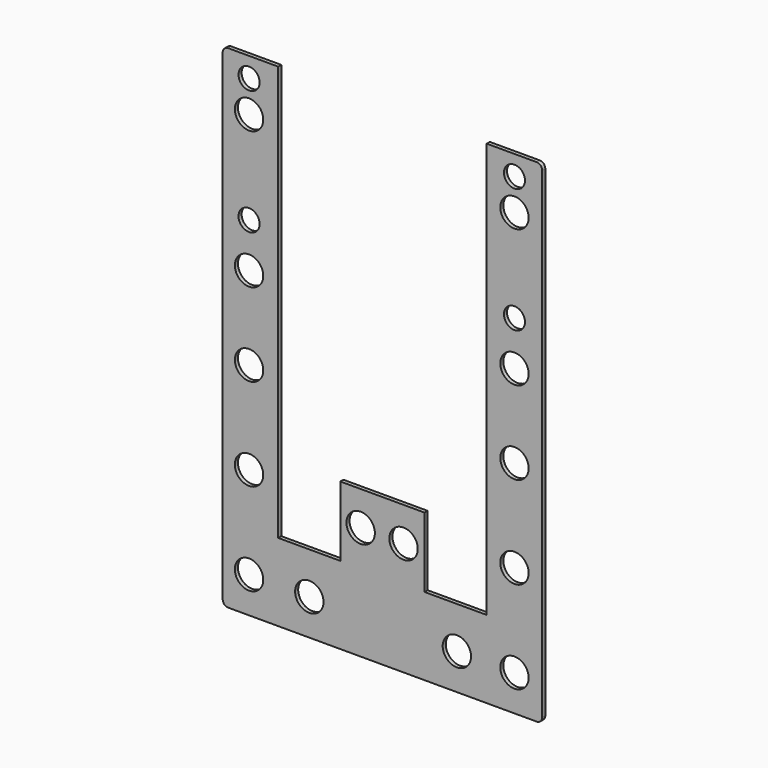
from build123d import *

# Parameters (mm, degrees)
F0_R     = 3.2512
F0_R_2   = 2.413
F1_DEPTH = 0.889


with BuildPart() as f1:
    # F0 (on Front) → F1 (new body)
    with BuildSketch(Plane.XZ):
        with BuildLine():
            ThreePointArc((-34.7836, 56.482241), (-35.681625, 56.110266), (-36.0536, 55.212241))
            Line((-36.0536, 55.212241), (-36.0536, -55.023759))
            ThreePointArc((-36.0536, -55.023759), (-35.681625, -55.921785), (-34.7836, -56.293759))
            Line((-34.7836, -56.293759), (35.8284, -56.293759))
            ThreePointArc((35.8284, -56.293759), (36.726426, -55.921785), (37.0984, -55.023759))
            Line((37.0984, -55.023759), (37.0984, 55.212241))
            ThreePointArc((37.0984, 55.212241), (36.726426, 56.110266), (35.8284, 56.482241))
            Line((35.8284, 56.482241), (24.3984, 56.482241))
            Line((24.3984, 56.482241), (24.3984, -38.513759))
            Line((24.3984, -38.513759), (10.1744, -38.513759))
            Line((10.1744, -38.513759), (10.1744, -22.511759))
            Line((10.1744, -22.511759), (-9.1296, -22.511759))
            Line((-9.1296, -22.511759), (-9.1296, -38.513759))
            Line((-9.1296, -38.513759), (-23.3536, -38.513759))
            Line((-23.3536, -38.513759), (-23.3536, 56.482241))
            Line((-23.3536, 56.482241), (-34.7836, 56.482241))
        make_face()
        with Locations((-30.022221, -48.062544)):
            Circle(F0_R, mode=Mode.SUBTRACT)
        with Locations((-16.222711, -48.062544)):
            Circle(F0_R, mode=Mode.SUBTRACT)
        with Locations((-4.467035, -30.334959)):
            Circle(F0_R, mode=Mode.SUBTRACT)
        with Locations((-30.022221, -26.952723)):
            Circle(F0_R, mode=Mode.SUBTRACT)
        with Locations((-30.022221, -5.842898)):
            Circle(F0_R, mode=Mode.SUBTRACT)
        with Locations((17.563765, -48.062544)):
            Circle(F0_R, mode=Mode.SUBTRACT)
        with Locations((5.348405, -30.334959)):
            Circle(F0_R, mode=Mode.SUBTRACT)
        with Locations((30.7484, -48.062544)):
            Circle(F0_R, mode=Mode.SUBTRACT)
        with Locations((30.7484, -26.952723)):
            Circle(F0_R, mode=Mode.SUBTRACT)
        with Locations((30.7484, -5.842898)):
            Circle(F0_R, mode=Mode.SUBTRACT)
        with Locations((-30.022221, 13.207102)):
            Circle(F0_R, mode=Mode.SUBTRACT)
        with Locations((-30.022221, 23.386041)):
            Circle(F0_R_2, mode=Mode.SUBTRACT)
        with Locations((-30.022221, 44.671241)):
            Circle(F0_R, mode=Mode.SUBTRACT)
        with Locations((-30.022221, 51.910241)):
            Circle(F0_R_2, mode=Mode.SUBTRACT)
        with Locations((30.7484, 13.207102)):
            Circle(F0_R, mode=Mode.SUBTRACT)
        with Locations((30.7484, 23.386041)):
            Circle(F0_R_2, mode=Mode.SUBTRACT)
        with Locations((30.7484, 44.671241)):
            Circle(F0_R, mode=Mode.SUBTRACT)
        with Locations((30.7484, 51.910241)):
            Circle(F0_R_2, mode=Mode.SUBTRACT)
    extrude(amount=F1_DEPTH)


solid = f1.part
